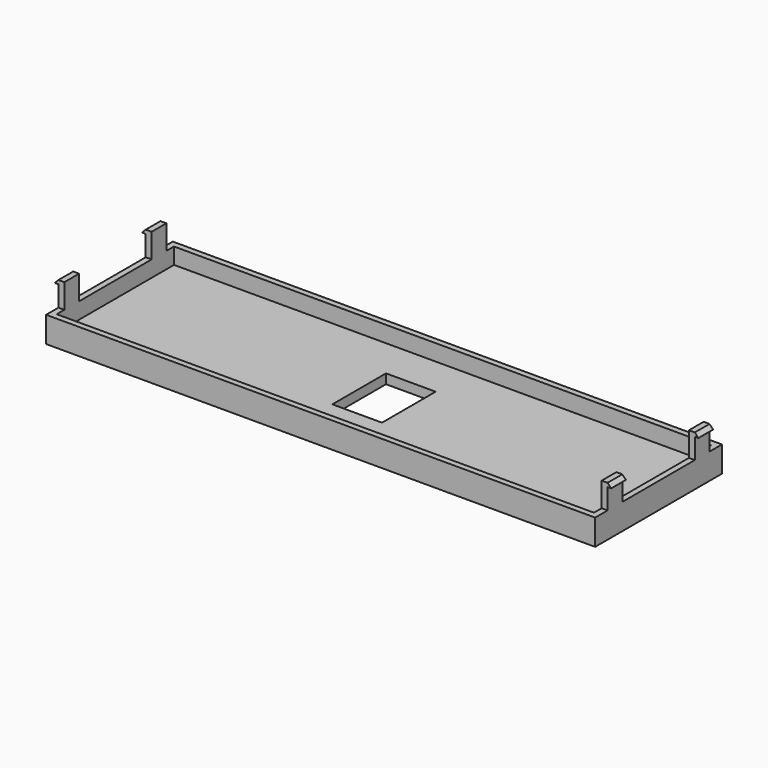
from build123d import *

# Parameters (mm, degrees)
F0_W      = 149
F0_H      = 43
F1_DEPTH  = 7
F2_T      = -1.6
F3_DEPTH  = 1
F4_W      = 1.6
F4_H      = 5
F5_DEPTH  = 6.6
F6_W      = 5
F6_H      = 1.0360542744
F7_DEPTH  = 1
F8_SIZE   = 1
F9_W      = 5
F9_H      = 1.0135311693
F10_DEPTH = 1
F11_SIZE  = 1
F12_W     = 6.7361369729
F12_H     = 9.1
F13_DEPTH = 25


with BuildPart() as f1:
    # F0 (on Top) → F1 (new body)
    with BuildSketch(Plane.XY):
        with Locations((74.5, -21.5)):
            Rectangle(F0_W, F0_H)
    extrude(amount=F1_DEPTH)

    # F2
    f2_openings = [f1.faces().sort_by_distance(p)[0] for p in [
        (74.5, -21.5, 7),
    ]]
    offset(amount=F2_T, openings=f2_openings)

    # F3 (add): a face of the model
    f3_faces = [f1.faces().sort_by_distance(p)[0] for p in [
        (74.5, -21.5, 1.6),
    ]]
    extrude(f3_faces, amount=F3_DEPTH)

    # F4 (on face) → F5 (join)
    with BuildSketch(Plane.XY.offset(7)):
        with Locations((0.8, -6.7)):
            Rectangle(F4_W, F4_H)
        with Locations((0.8, -36.3)):
            Rectangle(F4_W, F4_H)
        with Locations((148.2, -6.7)):
            Rectangle(F4_W, F4_H)
        with Locations((148.2, -36.3)):
            Rectangle(F4_W, F4_H)
    extrude(amount=F5_DEPTH)

    # F6 (on face) → F7 (join)
    with BuildSketch(Plane(origin=(0, 0, 0), x_dir=(0, -1, 0), z_dir=(-1, 0, 0))):
        with Locations((6.7, 13.0819728628)):
            Rectangle(F6_W, F6_H)
        with Locations((36.3, 13.0819728628)):
            Rectangle(F6_W, F6_H)
    extrude(amount=F7_DEPTH)

    # F8
    f8_edges = [f1.edges().sort_by_distance(p)[0] for p in [
        (-1, -6.7, 13.6),
        (-1, -36.3, 13.6),
    ]]
    chamfer(f8_edges, length=F8_SIZE)

    # F9 (on face) → F10 (join)
    with BuildSketch(Plane.YZ.offset(149)):
        with Locations((-36.3, 13.0932344154)):
            Rectangle(F9_W, F9_H)
        with Locations((-6.7, 13.0932344154)):
            Rectangle(F9_W, F9_H)
    extrude(amount=F10_DEPTH)

    # F11
    f11_edges = [f1.edges().sort_by_distance(p)[0] for p in [
        (150, -36.3, 13.6),
        (150, -6.7, 13.6),
    ]]
    chamfer(f11_edges, length=F11_SIZE)

    # F12 (on face) → F13 (cut)
    with BuildSketch(Plane(origin=(0, 0, 0), x_dir=(1, 0, 0), z_dir=(0, 0, -1))):
        with Locations((77.8680684865, 26.05)):
            Rectangle(F12_W, F12_H)
        with Locations((71.1319315135, 26.05)):
            Rectangle(F12_W, F12_H)
        with Locations((77.8680684865, 16.95)):
            Rectangle(F12_W, F12_H)
        with Locations((71.1319315135, 16.95)):
            Rectangle(F12_W, F12_H)
    extrude(amount=-F13_DEPTH, mode=Mode.SUBTRACT)


solid = f1.part
